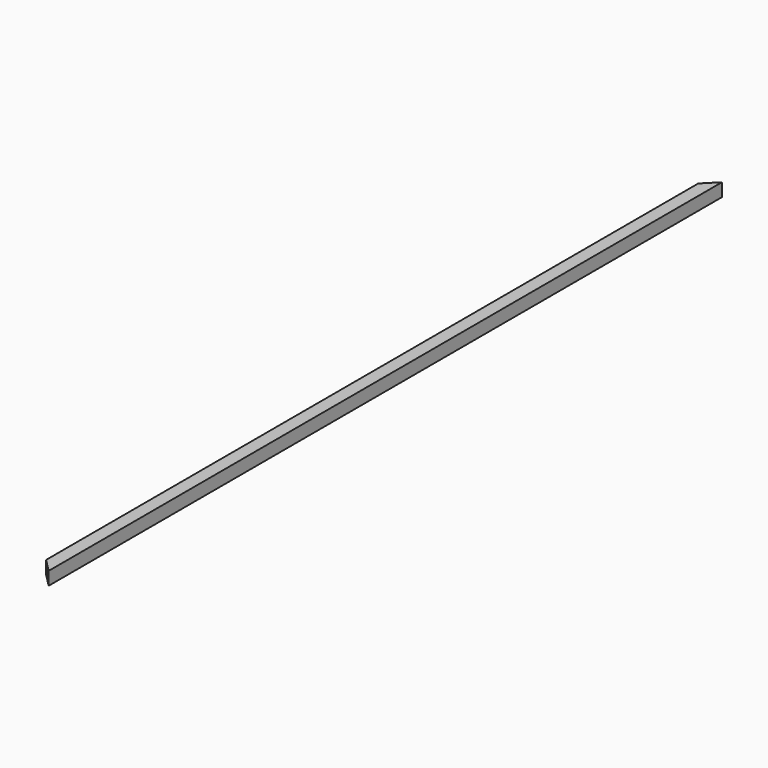
from build123d import *

# Parameters (mm, degrees)
F0_W     = 25.4
F0_H     = 25.4
F0_W_2   = 22.098
F0_H_2   = 22.098
F1_DEPTH = 1625.6
F3_DEPTH = 25.401
F5_DEPTH = 25.401


with BuildPart() as f1:
    # F0 (on Front) → F1 (new body)
    with BuildSketch(Plane.XZ):
        with Locations((12.7, 12.7)):
            Rectangle(F0_W, F0_H)
        with Locations((12.7, 12.7)):
            Rectangle(F0_W_2, F0_H_2, mode=Mode.SUBTRACT)
    extrude(amount=F1_DEPTH)

    # F2 (on face) → F3 (cut, through all)
    with BuildSketch(Plane.XY.offset(25.4)):
        Polygon((0, -1625.6), (25.4, -1625.6), (0, -1600.2), align=None)
    extrude(amount=-F3_DEPTH, mode=Mode.SUBTRACT)

    # F4 (on face) → F5 (cut, through all)
    with BuildSketch(Plane.XY.offset(25.4)):
        Polygon((0, -25.4), (25.4, 0), (0, 0), align=None)
    extrude(amount=-F5_DEPTH, mode=Mode.SUBTRACT)


solid = f1.part
